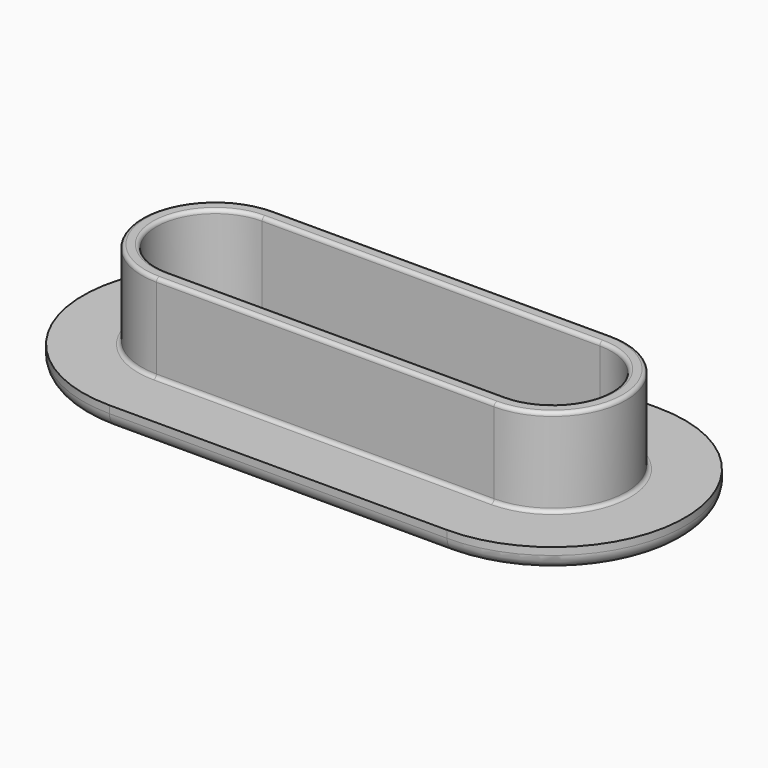
from build123d import *

# Parameters (mm, degrees)
PAD_DEPTH    = 7.5
PAD001_DEPTH = 1.5
FILLET_R     = 1
FILLET001_R  = 0.25
FILLET002_R  = 0.25


with BuildPart() as part:
    # Sketch → Pad (new body)
    with BuildSketch(Plane.XY):
        with BuildLine():
            ThreePointArc((-11.5, 5), (-16.5, 0), (-11.5, -5))
            Line((-11.5, -5), (11.5, -5))
            ThreePointArc((11.5, -5), (16.5, 0), (11.5, 5))
            Line((-11.5, 5), (11.5, 5))
        make_face()
        with BuildLine():
            ThreePointArc((-11.5, 4), (-15.5, 0), (-11.5, -4))
            Line((-11.5, -4), (11.5, -4))
            ThreePointArc((11.5, -4), (15.5, 0), (11.5, 4))
            Line((-11.5, 4), (11.5, 4))
        make_face(mode=Mode.SUBTRACT)
    extrude(amount=PAD_DEPTH)

    # Sketch001 → Pad001 (join)
    with BuildSketch(Plane.XY):
        with BuildLine():
            ThreePointArc((-11.5, 9), (-20.5, 0), (-11.5, -9))
            Line((-11.5, -9), (11.5, -9))
            ThreePointArc((11.5, -9), (20.5, 0), (11.5, 9))
            Line((-11.5, 9), (11.5, 9))
        make_face()
        with BuildLine():
            ThreePointArc((-11.5, 4), (-15.5, 0), (-11.5, -4))
            Line((-11.5, -4), (11.5, -4))
            ThreePointArc((11.5, -4), (15.5, 0), (11.5, 4))
            Line((-11.5, 4), (11.5, 4))
        make_face(mode=Mode.SUBTRACT)
    extrude(amount=PAD001_DEPTH)

    # Fillet
    fillet_edges = [part.edges().sort_by_distance(p)[0] for p in [
        (0, 9, 0),
        (0, 4, 0),
    ]]
    fillet(fillet_edges, radius=FILLET_R)

    # Fillet001
    fillet001_edges = [part.edges().sort_by_distance(p)[0] for p in [
        (0, -5, 7.5),
        (0, -4, 7.5),
    ]]
    fillet(fillet001_edges, radius=FILLET001_R)

    # Fillet002
    fillet002_edges = [part.edges().sort_by_distance(p)[0] for p in [
        (0, 5, 1.5),
    ]]
    fillet(fillet002_edges, radius=FILLET002_R)


solid = part.part
